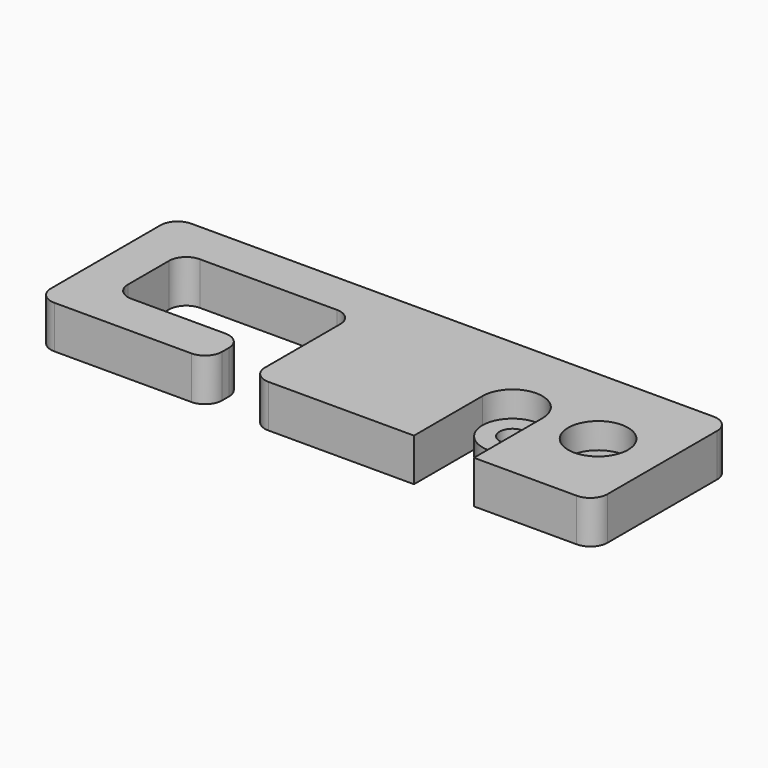
from build123d import *

# Parameters (mm, degrees)
F1_DEPTH = 5
F2_R     = 2
F3_R     = 1.5
F4_DEPTH = 5.001
F3_R_2   = 3.5
F5_DEPTH = 3
F7_DEPTH = 5


with BuildPart() as f1:
    # F0 (on Top) → F1 (new body)
    with BuildSketch(Plane.XY):
        Polygon((0, 15), (0, 0), (40, 0), (40, 20), (0, 20), (-25, 20), (-25, 0), (-5, 0), (-5, 5), (-20, 5), (-20, 15), align=None)
    extrude(amount=F1_DEPTH)

    # F2
    f2_edges = [f1.edges().sort_by_distance(p)[0] for p in [
        (-25, 0, 2.5),
        (-25, 20, 2.5),
        (40, 0, 2.5),
        (40, 20, 2.5),
        (0, 0, 2.5),
        (0, 15, 2.5),
        (-5, 0, 2.5),
        (-20, 5, 2.5),
        (-5, 5, 2.5),
        (-20, 15, 2.5),
    ]]
    fillet(f2_edges, radius=F2_R)

    # F3 (on face) → F4 (cut, through all)
    with BuildSketch(Plane.XY.offset(5)):
        with Locations((32.5, 10)):
            Circle(F3_R)
        with Locations((22.5, 10)):
            Circle(F3_R)
    extrude(amount=-F4_DEPTH, mode=Mode.SUBTRACT)

    # F3 (on face) → F5 (cut)
    with BuildSketch(Plane.XY.offset(5)):
        with Locations((22.5, 10)):
            Circle(F3_R_2)
        with Locations((22.5, 10)):
            Circle(F3_R, mode=Mode.SUBTRACT)
        with Locations((32.5, 10)):
            Circle(F3_R_2)
        with Locations((32.5, 10)):
            Circle(F3_R, mode=Mode.SUBTRACT)
    extrude(amount=-F5_DEPTH, mode=Mode.SUBTRACT)

    # F6 (on face) → F7 (cut, through all)
    with BuildSketch(Plane.XY.offset(5)):
        with BuildLine():
            ThreePointArc((26, 10), (22.5, 6.5), (19, 10))
            Line((19, 10), (19, 0))
            Line((19, 0), (26, 0))
            Line((26, 0), (26, 10))
        make_face()
    extrude(amount=-F7_DEPTH, mode=Mode.SUBTRACT)


solid = f1.part
